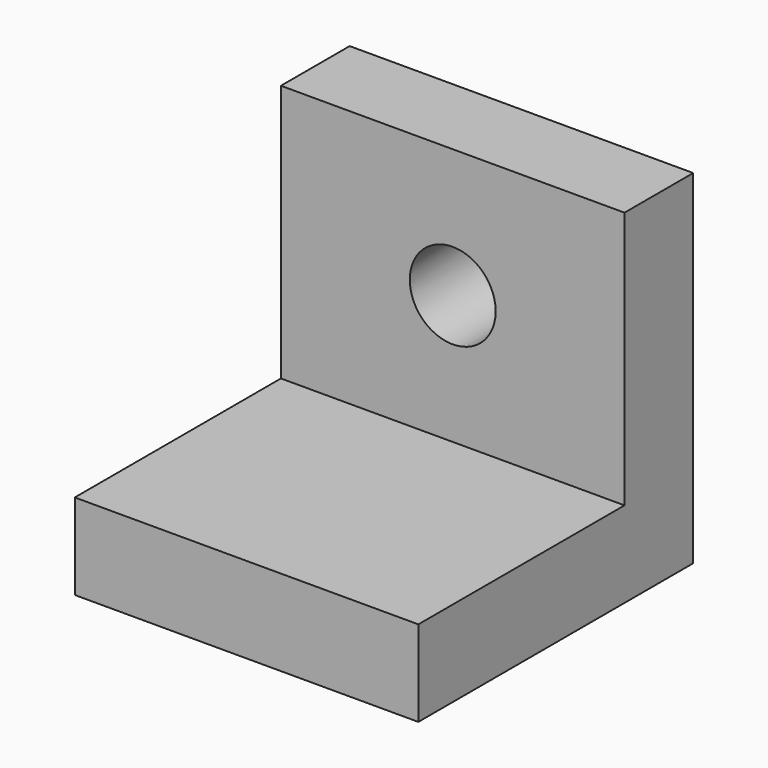
from build123d import *

# Parameters (mm, degrees)
F0_W     = 50.8
F0_H     = 50.8
F1_DEPTH = 12.7
F2_W     = 50.8
F2_H     = 12.7
F3_DEPTH = 38.1
F4_R     = 6.35
F5_DEPTH = 25.4


with BuildPart() as f1:
    # F0 (on Top) → F1 (new body)
    with BuildSketch(Plane.XY):
        with Locations((5.20613, 3.671458)):
            Rectangle(F0_W, F0_H)
    extrude(amount=F1_DEPTH)

    # F2 (on face) → F3 (join)
    with BuildSketch(Plane.XY.offset(12.7)):
        with Locations((5.20613, 22.721458)):
            Rectangle(F2_W, F2_H)
    extrude(amount=F3_DEPTH)

    # F4 (on face) → F5 (cut)
    with BuildSketch(Plane.XZ.offset(-16.371458)):
        with Locations((5.20613, 31.75)):
            Circle(F4_R)
    extrude(amount=-F5_DEPTH, mode=Mode.SUBTRACT)


solid = f1.part
